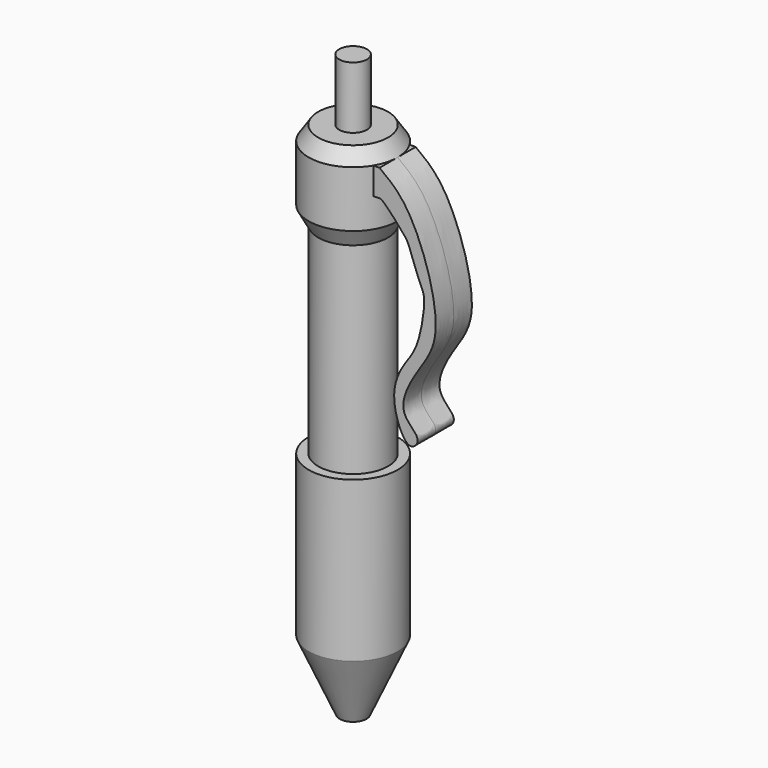
from build123d import *

# Parameters (mm, degrees)
F3_DEPTH = 3.175


with BuildPart() as f1:
    # F0 (on Front) → F1 (revolve)
    with BuildSketch(Plane.XZ):
        Polygon((0, 81.6120281816), (0, 0), (1.889105537, 0), (6.2517859042, 9.7748637199), (6.2517859042, 32.2323516011), (4.9072704278, 32.2323516011), (4.9072704278, 60.529652983), (6.2517859042, 62.9957392812), (6.2517859042, 70.892341435), (4.9072704278, 72.9061663151), (1.9515648019, 72.9061663151), (1.9515648019, 81.6120281816), align=None)
    revolve(axis=Axis((0, 0, 40.8060140908), (0, 0, 1)))

    # F2 (on Front) → F3 (join, symmetric)
    with BuildSketch(Plane.XZ):
        with BuildLine():
            add(Edge.make_bspline(
                [(6.2517859042, 70.892341435), (7.5894187846, 69.8982519036), (11.0797339429, 67.3871969776), (15.7819068601, 52.9154697383), (11.5233433779, 47.7495902399), (8.3453245517, 41.5758225926), (12.4469685605, 39.2922630427), (10.4188560816, 37.0898658295), (8.6017471876, 40.3028175208), (7.9570665427, 44.3279398149), (9.6798880677, 47.9074641388), (11.7975897199, 50.2612867867), (12.8225761903, 56.848851903), (12.0259059388, 58.0928609988), (10.4174663853, 62.4599334489), (10.119205277, 63.3629514984), (6.779971785, 67.0574011788), (6.3606187766, 67.1226356623), (6.2596276402, 67.1260133386)],
                knots=[0, 0, 0, 0, 0.0763519038, 0.1947236207, 0.2769466598, 0.3531260685, 0.4108068064, 0.4492444983, 0.5024067051, 0.5680256025, 0.6286181325, 0.6870739378, 0.7654432881, 0.8073071064, 0.8724803338, 0.9103244458, 0.9789647793, 1, 1, 1, 1], degree=3))
            Line((6.2517859042, 70.892341435), (5.3371824324, 70.892341435))
            Line((5.3371824324, 70.892341435), (5.3371824324, 67.0995786786))
            Line((5.3371824324, 67.0995786786), (6.2596276402, 67.1260133386))
        make_face()
    extrude(amount=F3_DEPTH, both=True)


solid = f1.part
